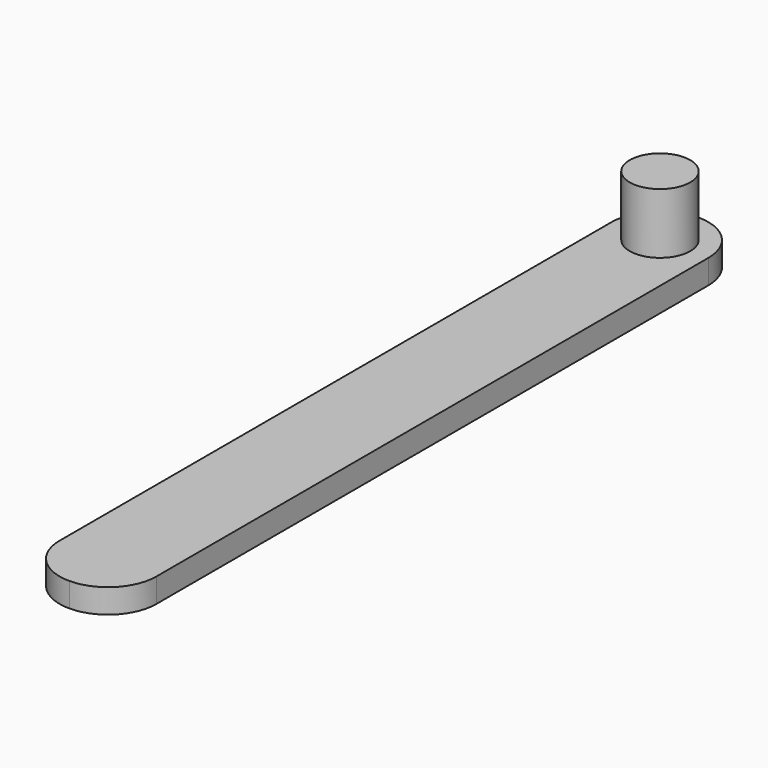
from build123d import *

# Parameters (mm, degrees)
F1_R     = 2.5
F2_DEPTH = 7
F3_DEPTH = 2


with BuildPart() as f2:
    # F1 (on offset) → F2 (new body)
    with BuildSketch(Plane.XY):
        with Locations((-11.065031, 13.209959)):
            Circle(F1_R)
    extrude(amount=F2_DEPTH)

    # F1 (on offset) → F3 (join)
    with BuildSketch(Plane.XY):
        with BuildLine():
            ThreePointArc((-11.065031, 17.209959), (-13.893458, 16.038386), (-15.065031, 13.209959))
            Line((-15.065031, 13.209959), (-15.065031, -43.790041))
            ThreePointArc((-15.065031, -43.790041), (-13.893458, -46.618468), (-11.065031, -47.790041))
            ThreePointArc((-11.065031, -47.790041), (-8.236604, -46.618468), (-7.065031, -43.790041))
            Line((-7.065031, -43.790041), (-7.065031, 13.209959))
            ThreePointArc((-7.065031, 13.209959), (-8.236604, 16.038386), (-11.065031, 17.209959))
        make_face()
        with Locations((-11.065031, 13.209959)):
            Circle(F1_R, mode=Mode.SUBTRACT)
    extrude(amount=F3_DEPTH)


solid = f2.part
